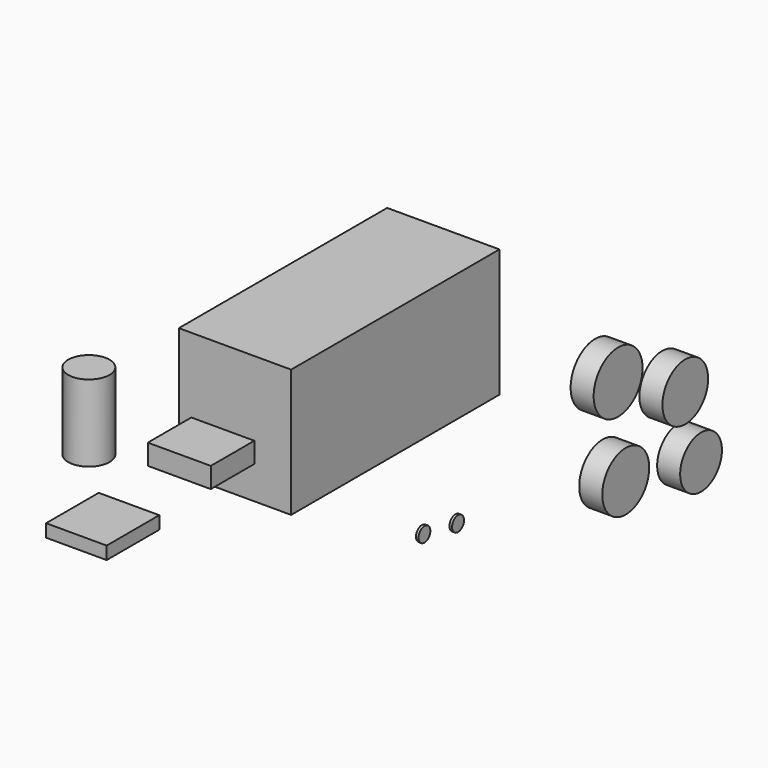
from build123d import *

# Parameters (mm, degrees)
F0_W      = 111.528584
F0_H      = 127.037018
F1_DEPTH  = 258.572
F2_W      = 62.544964
F2_H      = 54.04234
F3_DEPTH  = 20.32
F4_W      = 61.35641
F4_H      = 47.634989
F5_DEPTH  = 60.96
F6_R      = 28.37764
F6_R_2    = 25.916033
F6_R_3    = 29.151088
F6_R_4    = 30.342157
F7_DEPTH  = 22.86
F8_R      = 7.329758
F9_DEPTH  = 2.54
F10_R     = 7.431939
F11_DEPTH = 2.54
F12_R     = 20.534601
F13_DEPTH = 76.2
F14_W     = 60.150437
F14_H     = 65.336704
F15_DEPTH = 12.7


with BuildPart() as f1:
    # F0 (on Front) → F1 (new body)
    with BuildSketch(Plane.XZ):
        with Locations((-44.236037, 10.01291)):
            Rectangle(F0_W, F0_H)
    extrude(amount=F1_DEPTH)


with BuildPart() as f3:
    # F2 (on Top) → F3 (new body)
    with BuildSketch(Plane.XY):
        with Locations((-31.272482, -316.886425)):
            Rectangle(F2_W, F2_H)
    extrude(amount=F3_DEPTH)


with BuildPart() as f5:
    # F4 (on Front) → F5 (new body)
    with BuildSketch(Plane.XZ):
        with Locations((-198.54974, -149.366155)):
            Rectangle(F4_W, F4_H)
    extrude(amount=F5_DEPTH)


with BuildPart() as f7:
    # F6 (on Right) → F7 (new body)
    with BuildSketch(Plane.YZ):
        with Locations((216.516882, -135.306746)):
            Circle(F6_R)
        with Locations((236.098245, -204.756662)):
            Circle(F6_R_2)
        with Locations((142.613113, -183.454737)):
            Circle(F6_R_3)
        with Locations((133.138269, -92.919379)):
            Circle(F6_R_4)
    extrude(amount=F7_DEPTH)


with BuildPart() as f9:
    # F8 (on Right) → F9 (new body)
    with BuildSketch(Plane.YZ):
        with Locations((-81.833281, -145.192206)):
            Circle(F8_R)
    extrude(amount=F9_DEPTH)


with BuildPart() as f11:
    # F10 (on Right) → F11 (new body)
    with BuildSketch(Plane.YZ):
        with Locations((-40.143982, -152.805269)):
            Circle(F10_R)
    extrude(amount=F11_DEPTH)


with BuildPart() as f13:
    # F12 (on Top) → F13 (new body)
    with BuildSketch(Plane.XY):
        with Locations((-110.185713, -357.502609)):
            Circle(F12_R)
    extrude(amount=F13_DEPTH)


with BuildPart() as f15:
    # F14 (on Top) → F15 (new body)
    with BuildSketch(Plane.XY):
        with Locations((-18.666125, -454.760611)):
            Rectangle(F14_W, F14_H)
    extrude(amount=F15_DEPTH)


solid = Compound([f1.part, f3.part, f5.part, f7.part, f9.part, f11.part, f13.part, f15.part])
